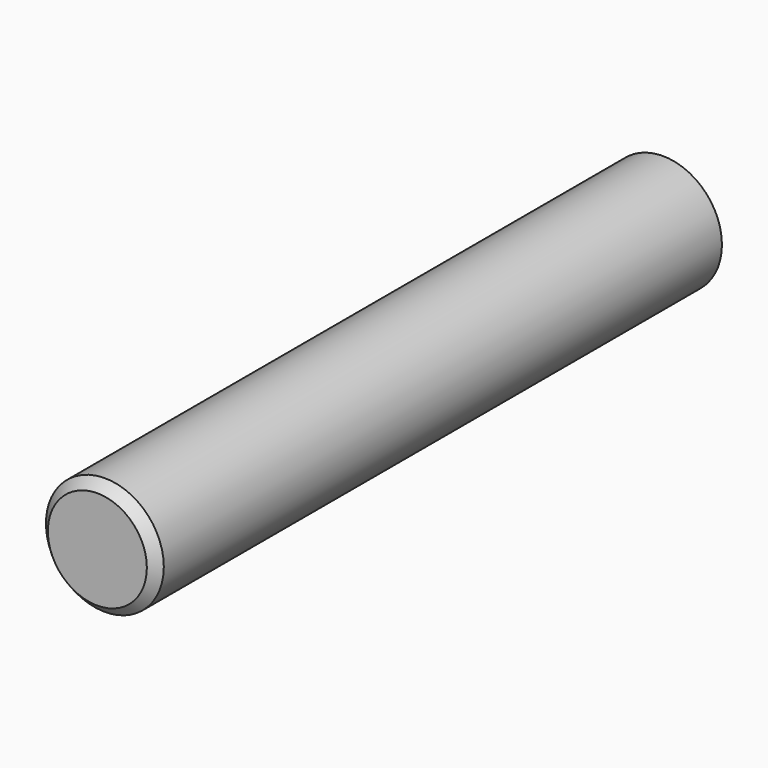
from build123d import *

# Parameters (mm, degrees)
F0_R     = 3.175
F1_DEPTH = 38.1
F2_R     = 1.5875
F3_DEPTH = 12.7
F4_R     = 0.79375
F5_DEPTH = 3.176
F6_SIZE  = 0.508


with BuildPart() as f1:
    # F0 (on Front) → F1 (new body)
    with BuildSketch(Plane.XZ):
        Circle(F0_R)
    extrude(amount=F1_DEPTH)

    # F2 (on face) → F3 (cut)
    with BuildSketch(Plane(origin=(0, 0, 0), x_dir=(-1, 0, 0), z_dir=(0, 1, 0))):
        Circle(F2_R)
    extrude(amount=-F3_DEPTH, mode=Mode.SUBTRACT)

    # F4 (on Top) → F5 (cut, through all)
    with BuildSketch(Plane.XY):
        with Locations((0, -6.35)):
            Circle(F4_R)
    extrude(amount=-F5_DEPTH, mode=Mode.SUBTRACT)

    # F6
    f6_edges = [f1.edges().sort_by_distance(p)[0] for p in [
        (-3.175, -38.1, 0),
    ]]
    chamfer(f6_edges, length=F6_SIZE)


solid = f1.part
